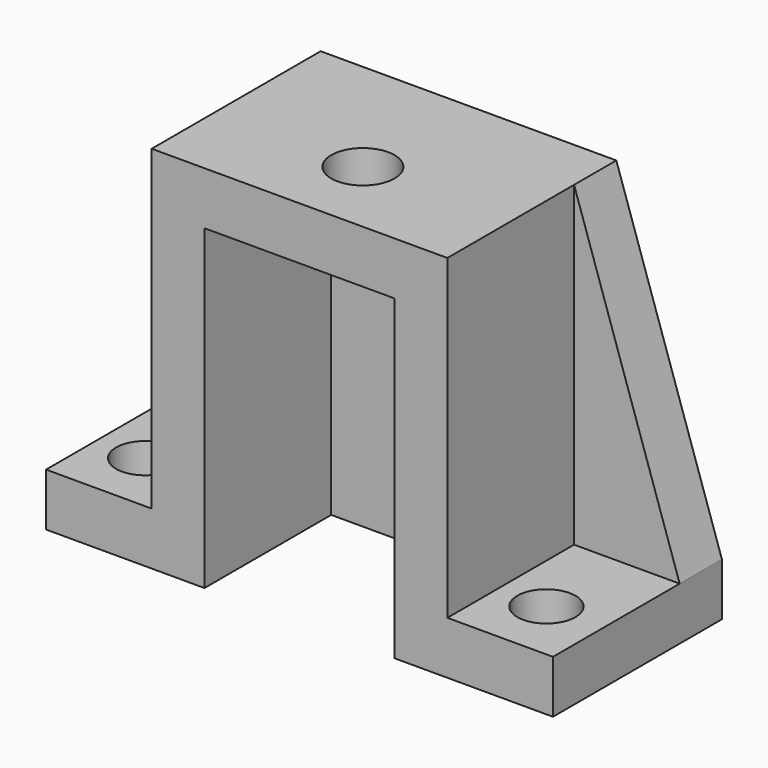
from build123d import *

# Parameters (mm, degrees)
F0_W     = 36
F0_H     = 60
F1_DEPTH = 10
F3_DEPTH = 40
F4_D     = 11
F5_D     = 12


with BuildPart() as f1:
    # F0 (on Front) → F1 (new body)
    with BuildSketch(Plane.XZ):
        with Locations((48, 30)):
            Rectangle(F0_W, F0_H)
    extrude(amount=F1_DEPTH)



with BuildPart() as f1b:
    # F0 (on Front) → F1, piece 2 (new body)
    with BuildSketch(Plane.XZ):
        Polygon((76, 10), (96, 10), (76, 70), align=None)
    extrude(amount=F1_DEPTH)


with BuildPart() as f1c:
    # F0 (on Front) → F1, piece 3 (new body)
    with BuildSketch(Plane.XZ):
        Polygon((20, 70), (0, 10), (20, 10), align=None)
    extrude(amount=F1_DEPTH)


with BuildPart() as f1_1:
    add(f1.part)

    add(f1b.part)  # F3 merges F1b

    add(f1c.part)  # F3 merges F1c
    # F0 (on Front) → F3 (join)
    with BuildSketch(Plane.XZ):
        Polygon((0, 0), (30, 0), (30, 60), (66, 60), (66, 0), (96, 0), (96, 10), (76, 10), (76, 70), (20, 70), (20, 10), (0, 10), align=None)
    extrude(amount=F3_DEPTH)

    # F4 (through all)
    with Locations(Plane(origin=(0, 0, 0), x_dir=(1, 0, 0), z_dir=(0, 0, -1))):
        with Locations((9.1561370553, 28), (85.1561370553, 28)):
            Hole(F4_D / 2)

    # F5 (through all)
    with Locations(Plane(origin=(0, 0, 0), x_dir=(1, 0, 0), z_dir=(0, 0, -1))):
        with Locations((48, 25)):
            Hole(F5_D / 2)


solid = f1_1.part
